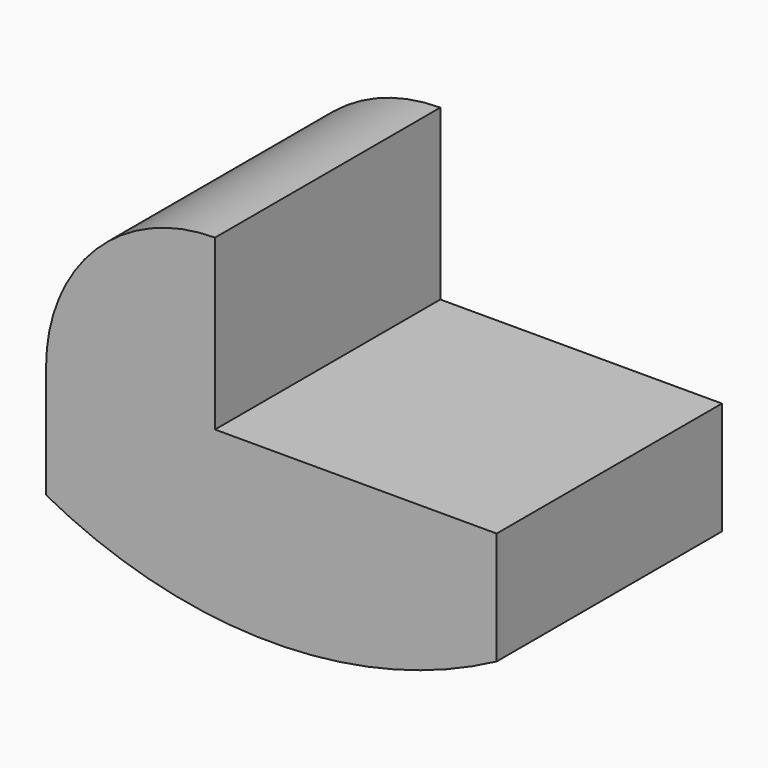
from build123d import *

# Parameters (mm, degrees)
F1_DEPTH = 50


with BuildPart() as f1:
    # F0 (on Front) → F1 (new body)
    with BuildSketch(Plane.XZ):
        with BuildLine():
            Line((-50, 30), (-50, 60))
            ThreePointArc((-50, 60), (-71.213203, 51.213203), (-80, 30))
            Line((-80, 30), (-80, 10))
            ThreePointArc((-80, 10), (-40, 0), (0, 10))
            Line((0, 10), (0, 30))
            Line((0, 30), (-50, 30))
        make_face()
    extrude(amount=F1_DEPTH)


solid = f1.part
